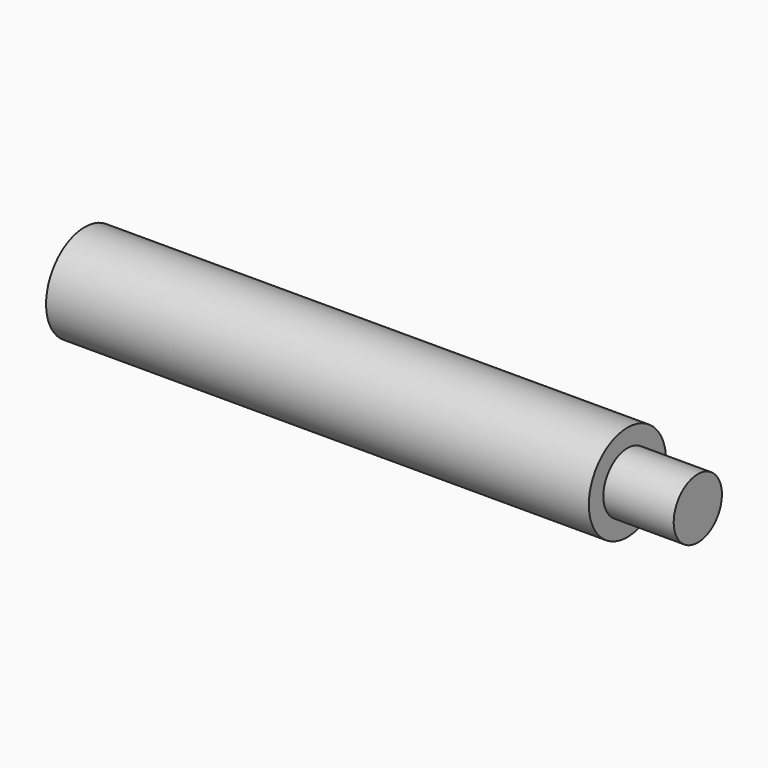
from build123d import *

# Parameters (mm, degrees)
F3_DEPTH = 26


with BuildPart() as f1:
    # F0 (on Front) → F1 (revolve)
    with BuildSketch(Plane.XZ):
        Polygon((0, 9.5), (0, 0), (70, 0), (70, 30), (0, 30), align=None)
        Polygon((-540, 9.5), (0, 9.5), (0, 30), (0, 48), (-540, 48), align=None)
    revolve(axis=Axis((35, 0, 0), (-1, 0, 0)))

    # F2 (on face) → F3 (cut)
    with BuildSketch(Plane(origin=(-540, 0, 0), x_dir=(0, -1, 0), z_dir=(-1, 0, 0))):
        Polygon((-3, 8.5), (0, 8.5), (3, 8.5), (3, 10.5), (-3, 10.5), align=None)
    extrude(amount=-F3_DEPTH, mode=Mode.SUBTRACT)


solid = f1.part
